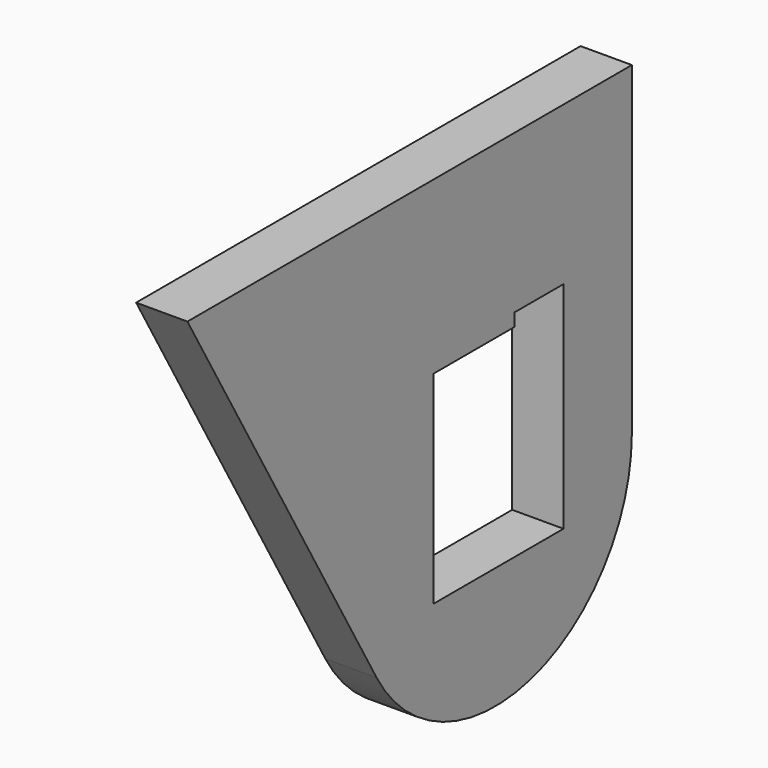
from build123d import *

# Parameters (mm, degrees)
F1_DEPTH = 6


with BuildPart() as f1:
    # F0 (on Right) → F1 (new body)
    with BuildSketch(Plane.YZ):
        with BuildLine():
            Line((87.968563, -69.082131), (22.968563, -69.082131))
            Line((22.968563, -69.082131), (50.648055, -117.024417))
            ThreePointArc((50.648055, -117.024417), (73.144944, -126.342933), (87.968563, -107.024417))
            Line((87.968563, -107.024417), (87.968563, -69.082131))
        make_face()
        Polygon((58.968563, -112.782131), (58.968563, -89.082131), (70.768563, -89.082131), (70.768563, -87.582131), (77.968563, -87.582131), (77.968563, -112.782131), align=None, mode=Mode.SUBTRACT)
    extrude(amount=F1_DEPTH)


solid = f1.part
